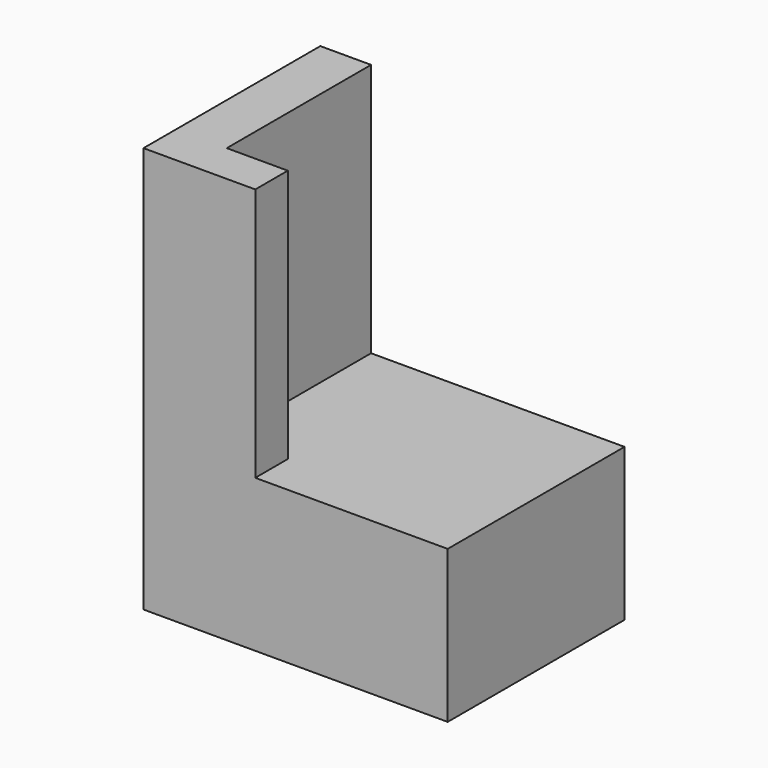
from build123d import *

# Parameters (mm, degrees)
F0_W     = 152.181194
F0_H     = 110.55436
F1_DEPTH = 203.2
F3_DEPTH = 127


with BuildPart() as f1:
    # F0 (on Top) → F1 (new body)
    with BuildSketch(Plane.XY):
        Rectangle(F0_W, F0_H)
    extrude(amount=-F1_DEPTH)

    # F2 (on face) → F3 (cut)
    with BuildSketch(Plane.XY):
        Polygon((-20.166455, -34.95718), (-20.166455, -55.27718), (76.090597, -55.27718), (76.090597, 55.27718), (-50.690597, 55.27718), (-50.690597, -34.95718), align=None)
    extrude(amount=-F3_DEPTH, mode=Mode.SUBTRACT)


solid = f1.part
